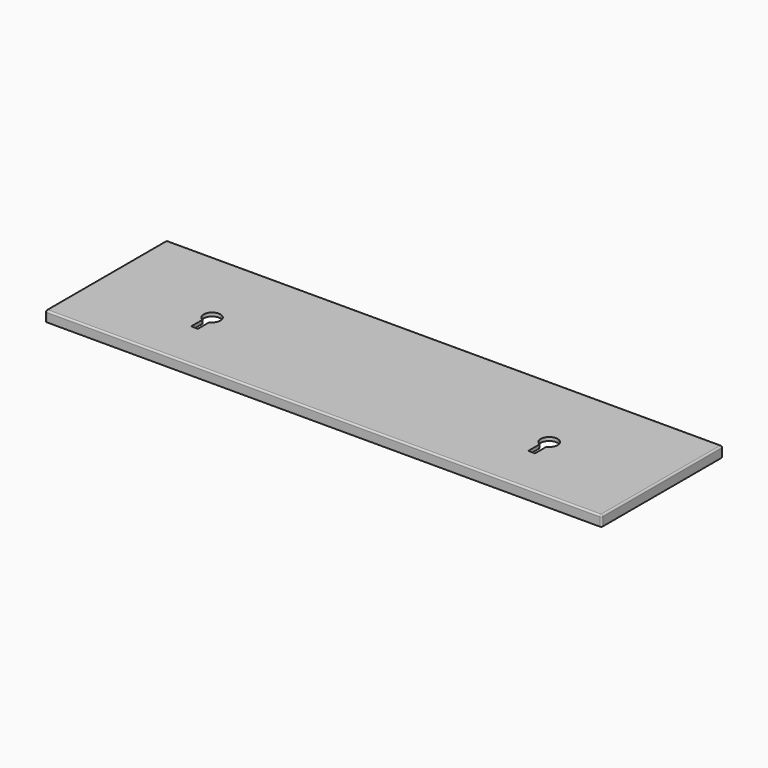
from build123d import *

# Parameters (mm, degrees)
BOX004_W                  = 4
BOX004_H                  = 10
BOX004_DEPTH              = 10
CYLINDER002_R             = 5
CYLINDER002_DEPTH         = 10
BOX003_W                  = 4
BOX003_H                  = 10
BOX003_DEPTH              = 10
CYLINDER001_R             = 5
CYLINDER001_DEPTH         = 10
BOX001_W                  = 15
BOX001_H                  = 10
BOX001_DEPTH              = 8
FILLET002_R               = 3
LID_GROOVE_LEFT_R         = 1.1
LID_GROOVE_LEFT_DEPTH     = 66.8
LID_GROOVE_RIGHT_R        = 1.1
LID_GROOVE_RIGHT_DEPTH    = 66.8
LID_INSIDE_W              = 325.8
LID_INSIDE_H              = 85.8
LID_INSIDE_DEPTH          = 4
LID_OUTSIDE_W             = 330
LID_OUTSIDE_H             = 90
LID_OUTSIDE_DEPTH         = 6.1
FILLET001_R               = 1
FILLET001_PLACEMENT_ANGLE = 180


with BuildPart() as cube003:
    # Box004 → Box004 (new body)
    with BuildSketch(Plane.XY):
        with Locations((2, 5)):
            Rectangle(BOX004_W, BOX004_H)
    extrude(amount=BOX004_DEPTH)


with BuildPart() as fusion002:
    # Cylinder002 → Cylinder002 (new body)
    with BuildSketch(Plane(origin=(2, 13, 0), x_dir=(1, 0, 0), z_dir=(0, 0, 1))):
        Circle(CYLINDER002_R)
    extrude(amount=CYLINDER002_DEPTH)

    # Fusion002: union Cube003
    add(cube003.part)


with BuildPart() as fusion002_1:
    # Fusion002 placement: moved
    add(fusion002.part.moved(Location((258.5, 25, 8))))


with BuildPart() as cube002:
    # Box003 → Box003 (new body)
    with BuildSketch(Plane.XY):
        with Locations((2, 5)):
            Rectangle(BOX003_W, BOX003_H)
    extrude(amount=BOX003_DEPTH)


with BuildPart() as fusion001:
    # Cylinder001 → Cylinder001 (new body)
    with BuildSketch(Plane(origin=(2, 13, 0), x_dir=(1, 0, 0), z_dir=(0, 0, 1))):
        Circle(CYLINDER001_R)
    extrude(amount=CYLINDER001_DEPTH)

    # Fusion001: union Cube002
    add(cube002.part)


with BuildPart() as fusion001_1:
    # Fusion001 placement: moved
    add(fusion001.part.moved(Location((58.5, 25, 8))))


with BuildPart() as fillet002:
    # Box001 → Box001 (new body)
    with BuildSketch(Plane(origin=(153.5, 80, 2), x_dir=(1, 0, 0), z_dir=(0, 0, 1))):
        with Locations((7.5, 5)):
            Rectangle(BOX001_W, BOX001_H)
    extrude(amount=BOX001_DEPTH)

    # Fillet002
    fillet002_edges = [fillet002.edges().sort_by_distance(p)[0] for p in [
        (153.5, 85, 10),
        (153.5, 85, 2),
        (168.5, 85, 10),
        (168.5, 85, 2),
    ]]
    fillet(fillet002_edges, radius=FILLET002_R)


with BuildPart() as lid_groove_left:
    # lid_groove_left → lid_groove_left (new body)
    with BuildSketch(Plane(origin=(-2.4, 7.1, 1), x_dir=(1, 0, 0), z_dir=(0, 1, 0))):
        Circle(LID_GROOVE_LEFT_R)
    extrude(amount=LID_GROOVE_LEFT_DEPTH)


with BuildPart() as lid_groove_right:
    # lid_groove_right → lid_groove_right (new body)
    with BuildSketch(Plane(origin=(323.4, 7.1, 1), x_dir=(1, 0, 0), z_dir=(0, 1, 0))):
        Circle(LID_GROOVE_RIGHT_R)
    extrude(amount=LID_GROOVE_RIGHT_DEPTH)


with BuildPart() as lid_inside:
    # lid_inside → lid_inside (new body)
    with BuildSketch(Plane(origin=(-2.4, -2.4, 0), x_dir=(1, 0, 0), z_dir=(0, 0, 1))):
        with Locations((162.9, 42.9)):
            Rectangle(LID_INSIDE_W, LID_INSIDE_H)
    extrude(amount=LID_INSIDE_DEPTH)


with BuildPart() as lid002:
    # lid_outside → lid_outside (new body)
    with BuildSketch(Plane(origin=(-4.5, -4.5, -2.1), x_dir=(1, 0, 0), z_dir=(0, 0, 1))):
        with Locations((165, 45)):
            Rectangle(LID_OUTSIDE_W, LID_OUTSIDE_H)
    extrude(amount=LID_OUTSIDE_DEPTH)

    # Cut001: cut lid_inside
    add(lid_inside.part, mode=Mode.SUBTRACT)

    # Cut002: cut lid_groove_right
    add(lid_groove_right.part, mode=Mode.SUBTRACT)

    # Cut003: cut lid_groove_left
    add(lid_groove_left.part, mode=Mode.SUBTRACT)

    # Fillet001
    fillet001_edges = [lid002.edges().sort_by_distance(p)[0] for p in [
        (-4.5, -4.5, 0.95),
        (-4.5, 85.5, 0.95),
        (-4.5, 40.5, -2.1),
        (160.5, -4.5, -2.1),
        (325.5, -4.5, 0.95),
        (160.5, 85.5, -2.1),
        (325.5, 85.5, 0.95),
        (325.5, 40.5, -2.1),
    ]]
    fillet(fillet001_edges, radius=FILLET001_R)


with BuildPart() as lid002_1:
    # Fillet001 placement: moved
    add(lid002.part.moved(Location((0, 81, 10))).rotate(Axis((0, 81, 10), (1, 0, 0)), FILLET001_PLACEMENT_ANGLE))

    # Cut004: cut Fillet002
    add(fillet002.part, mode=Mode.SUBTRACT)

    # Cut007: cut Fusion001
    add(fusion001_1.part, mode=Mode.SUBTRACT)

    # Cut008: cut Fusion002
    add(fusion002_1.part, mode=Mode.SUBTRACT)


solid = lid002_1.part
